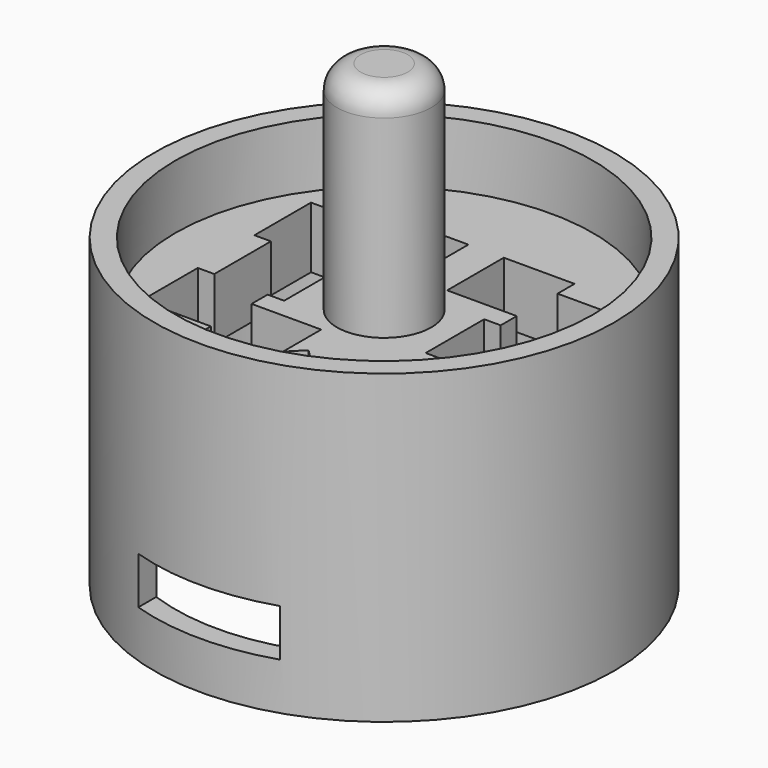
from build123d import *

# Parameters (mm, degrees)
BOX006_W               = 6
BOX006_H               = 20
BOX006_DEPTH           = 2
CYLINDER022_R          = 8.85
CYLINDER022_DEPTH      = 15
CYLINDER019_R          = 1.35
CYLINDER019_DEPTH      = 5
CYLINDER002_R          = 3
CYLINDER002_DEPTH      = 3
CYLINDER018_R          = 8.85
CYLINDER018_DEPTH      = 13
CYLINDER017_R          = 9.75
CYLINDER017_DEPTH      = 13
BOX_W                  = 6
BOX_H                  = 5.5
BOX_DEPTH              = 3
BOX_PLACEMENT_ANGLE    = 135
BOX005_W               = 1
BOX005_H               = 1.5
BOX005_DEPTH           = 7.7
BOX004_W               = 1
BOX004_H               = 1.5
BOX004_DEPTH           = 7.7
FILLET003_R            = 1
BOX015_W               = 3
BOX015_H               = 3
BOX015_DEPTH           = 2.8
BOX016_W               = 3
BOX016_H               = 3.1
BOX016_DEPTH           = 2.8
BOX014_W               = 3
BOX014_H               = 3
BOX014_DEPTH           = 2.8
BOX013_W               = 3
BOX013_H               = 3
BOX013_DEPTH           = 2.8
BOX012_W               = 3
BOX012_H               = 3.1
BOX012_DEPTH           = 2.8
BOX011_W               = 3
BOX011_H               = 3
BOX011_DEPTH           = 2.8
BOX010_W               = 3
BOX010_H               = 3
BOX010_DEPTH           = 2.8
BOX009_W               = 3
BOX009_H               = 3
BOX009_DEPTH           = 2.8
BOX009_PLACEMENT_ANGLE = 45
BOX017_W               = 3
BOX017_H               = 3
BOX017_DEPTH           = 2.8
CYLINDER044_R          = 9
CYLINDER044_DEPTH      = 2.6
CYLINDER001_R          = 2
CYLINDER001_DEPTH      = 10.5
FILLET_R               = 1


with BuildPart() as cube006:
    # Box006 → Box006 (new body)
    with BuildSketch(Plane(origin=(-3, -10, -3), x_dir=(1, 0, 0), z_dir=(0, 0, 1))):
        with Locations((3, 10)):
            Rectangle(BOX006_W, BOX006_H)
    extrude(amount=BOX006_DEPTH)


with BuildPart() as cylinder022:
    # Cylinder022 → Cylinder022 (new body)
    with BuildSketch(Plane.XY.offset(-6)):
        Circle(CYLINDER022_R)
    extrude(amount=CYLINDER022_DEPTH)


with BuildPart() as cylinder019:
    # Cylinder019 → Cylinder019 (new body)
    with BuildSketch(Plane(origin=(-10.002388, 10.002388, 0), x_dir=(0, -1, 0), z_dir=(0, 0, 1))):
        Circle(CYLINDER019_R)
    extrude(amount=CYLINDER019_DEPTH)


with BuildPart() as obj1:
    # Cylinder002 → Cylinder002 (new body)
    with BuildSketch(Plane(origin=(-10.002388, 10.002388, 0), x_dir=(0, -1, 0), z_dir=(0, 0, 1))):
        Circle(CYLINDER002_R)
    extrude(amount=CYLINDER002_DEPTH)


with BuildPart() as negative:
    # Cylinder018 → Cylinder018 (new body)
    with BuildSketch(Plane.XY.offset(-5)):
        Circle(CYLINDER018_R)
    extrude(amount=CYLINDER018_DEPTH)


with BuildPart() as outer_wall:
    # Cylinder017 → Cylinder017 (new body)
    with BuildSketch(Plane.XY.offset(-5)):
        Circle(CYLINDER017_R)
    extrude(amount=CYLINDER017_DEPTH)

    # Cut008: cut Negative
    add(negative.part, mode=Mode.SUBTRACT)


with BuildPart() as connect:
    # Box → Box (new body)
    with BuildSketch(Plane.XY):
        with Locations((3, 2.75)):
            Rectangle(BOX_W, BOX_H)
    extrude(amount=BOX_DEPTH)


with BuildPart() as connect_1:
    # Box placement: moved
    add(connect.part.moved(Location((-3.005204, 6.894291, 0))).rotate(Axis((-3.005204, 6.894291, 0), (0, 0, 1)), BOX_PLACEMENT_ANGLE))

    # Fusion008: union obj1, Outer Wall
    add(obj1.part)
    add(outer_wall.part)

    # Cut: cut Cylinder019
    add(cylinder019.part, mode=Mode.SUBTRACT)

    # Cut009: cut Cylinder022
    add(cylinder022.part, mode=Mode.SUBTRACT)


with BuildPart() as cube005:
    # Box005 → Box005 (new body)
    with BuildSketch(Plane(origin=(-8, 0.75, -3.5), x_dir=(-1, 0, 0), z_dir=(0, 0, 1))):
        with Locations((0.5, 0.75)):
            Rectangle(BOX005_W, BOX005_H)
    extrude(amount=BOX005_DEPTH)


with BuildPart() as fillet003:
    # Box004 → Box004 (new body)
    with BuildSketch(Plane(origin=(8, -0.75, -3.5), x_dir=(1, 0, 0), z_dir=(0, 0, 1))):
        with Locations((0.5, 0.75)):
            Rectangle(BOX004_W, BOX004_H)
    extrude(amount=BOX004_DEPTH)

    # Fusion: union Cube005
    add(cube005.part)

    # Fusion024: union Connect
    add(connect_1.part)

    # Cut013012: cut Cube006
    add(cube006.part, mode=Mode.SUBTRACT)

    # Fillet003
    fillet003_edges = [fillet003.edges().sort_by_distance(p)[0] for p in [
        (-6.894291, 6.894291, 0),
        (-4.669835, 8.558922, 1.5),
        (-8.558922, 4.669835, 1.5),
    ]]
    fillet(fillet003_edges, radius=FILLET003_R)


with BuildPart() as cube015:
    # Box015 → Box015 (new body)
    with BuildSketch(Plane(origin=(3.7, 1.5, 2.6), x_dir=(1, 0, 0), z_dir=(0, 0, 1))):
        with Locations((1.5, 1.5)):
            Rectangle(BOX015_W, BOX015_H)
    extrude(amount=BOX015_DEPTH)


with BuildPart() as cube016:
    # Box016 → Box016 (new body)
    with BuildSketch(Plane(origin=(3, -1.55, 2.6), x_dir=(1, 0, 0), z_dir=(0, 0, 1))):
        with Locations((1.5, 1.55)):
            Rectangle(BOX016_W, BOX016_H)
    extrude(amount=BOX016_DEPTH)


with BuildPart() as fusion027:
    # Box014 → Box014 (new body)
    with BuildSketch(Plane(origin=(0.75, 2.4, 2.6), x_dir=(1, 0, 0), z_dir=(0, 0, 1))):
        with Locations((1.5, 1.5)):
            Rectangle(BOX014_W, BOX014_H)
    extrude(amount=BOX014_DEPTH)

    # Fusion027: union Cube015, Cube016
    add(cube015.part)
    add(cube016.part)


with BuildPart() as cube013:
    # Box013 → Box013 (new body)
    with BuildSketch(Plane(origin=(-6.7, 1.5, 2.6), x_dir=(1, 0, 0), z_dir=(0, 0, 1))):
        with Locations((1.5, 1.5)):
            Rectangle(BOX013_W, BOX013_H)
    extrude(amount=BOX013_DEPTH)


with BuildPart() as cube012:
    # Box012 → Box012 (new body)
    with BuildSketch(Plane(origin=(-6, -1.55, 2.6), x_dir=(1, 0, 0), z_dir=(0, 0, 1))):
        with Locations((1.5, 1.55)):
            Rectangle(BOX012_W, BOX012_H)
    extrude(amount=BOX012_DEPTH)


with BuildPart() as cube011:
    # Box011 → Box011 (new body)
    with BuildSketch(Plane(origin=(-6.7, -4.5, 2.6), x_dir=(1, 0, 0), z_dir=(0, 0, 1))):
        with Locations((1.5, 1.5)):
            Rectangle(BOX011_W, BOX011_H)
    extrude(amount=BOX011_DEPTH)


with BuildPart() as cube010:
    # Box010 → Box010 (new body)
    with BuildSketch(Plane(origin=(-3.75, -5.4, 2.6), x_dir=(1, 0, 0), z_dir=(0, 0, 1))):
        with Locations((1.5, 1.5)):
            Rectangle(BOX010_W, BOX010_H)
    extrude(amount=BOX010_DEPTH)


with BuildPart() as cube009:
    # Box009 → Box009 (new body)
    with BuildSketch(Plane.XY):
        with Locations((1.5, 1.5)):
            Rectangle(BOX009_W, BOX009_H)
    extrude(amount=BOX009_DEPTH)


with BuildPart() as cube009_1:
    # Box009 placement: moved
    add(cube009.part.moved(Location((-0.15, -8.06, 2.6))).rotate(Axis((-0.15, -8.06, 2.6), (0, 0, 1)), BOX009_PLACEMENT_ANGLE))


with BuildPart() as compound:
    # Box017 → Box017 (new body)
    with BuildSketch(Plane(origin=(-3.75, 2.4, 2.6), x_dir=(1, 0, 0), z_dir=(0, 0, 1))):
        with Locations((1.5, 1.5)):
            Rectangle(BOX017_W, BOX017_H)
    extrude(amount=BOX017_DEPTH)

    # Fusion026: union Cube013, Cube012, Cube011, Cube010, Cube009
    add(cube013.part)
    add(cube012.part)
    add(cube011.part)
    add(cube010.part)
    add(cube009_1.part)

    # Compound: union Fusion027
    add(fusion027.part)


with BuildPart() as cut013013:
    # Cylinder044 → Cylinder044 (new body)
    with BuildSketch(Plane.XY.offset(2.7)):
        Circle(CYLINDER044_R)
    extrude(amount=CYLINDER044_DEPTH)

    # Cut013013: cut Compound
    add(compound.part, mode=Mode.SUBTRACT)


with BuildPart() as connector_base:
    # Cylinder001 → Cylinder001 (new body)
    with BuildSketch(Plane.XY.offset(4)):
        Circle(CYLINDER001_R)
    extrude(amount=CYLINDER001_DEPTH)

    # Fillet
    fillet_edges = [connector_base.edges().sort_by_distance(p)[0] for p in [
        (-2, 0, 14.5),
    ]]
    fillet(fillet_edges, radius=FILLET_R)

    # Fusion023: union Cut013013
    add(cut013013.part)

    # Fusion025: union Fillet003
    add(fillet003.part)


with BuildPart() as connector_base_1:
    # Fusion025 placement: moved
    add(connector_base.part.moved(Location((0, 0, 10))))


solid = connector_base_1.part
